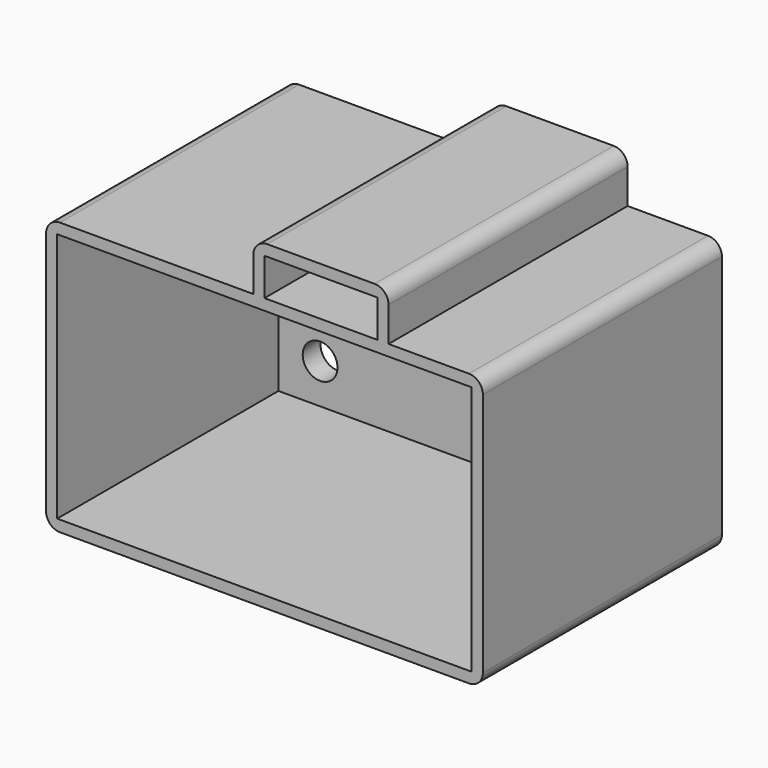
from build123d import *

# Parameters (mm, degrees)
F0_W      = 78.5
F0_H      = 49
F0_W_2    = 74.5
F0_H_2    = 45
F1_DEPTH  = 53.7
F2_W      = 24.3
F2_H      = 10.7
F2_W_2    = 20.3
F2_H_2    = 6.7
F3_DEPTH  = 11.15
F5_DEPTH  = 1
F6_W      = 74.5
F6_H      = 45
F6_R      = 3.125
F7_DEPTH  = 4
F10_DEPTH = 42.55
F11_R     = 2.5


with BuildPart() as f1:
    # F0 (on Front) → F1 (new body)
    with BuildSketch(Plane.XZ):
        Rectangle(F0_W, F0_H)
        Rectangle(F0_W_2, F0_H_2, mode=Mode.SUBTRACT)
    extrude(amount=-F1_DEPTH)

    # F2 (on Front) → F3 (join)
    with BuildSketch(Plane.XZ):
        with Locations((10.15, 27.85)):
            Rectangle(F2_W, F2_H)
        with Locations((10.15, 27.85)):
            Rectangle(F2_W_2, F2_H_2, mode=Mode.SUBTRACT)
    extrude(amount=-F3_DEPTH)

    # F4 (on face) → F5 (join)
    with BuildSketch(Plane(origin=(0, 11.15, 0), x_dir=(-1, 0, 0), z_dir=(0, 1, 0))):
        Polygon((-20.3, 24.5), (-19.3, 24.5), (-19.3, 30.2), (-1, 30.2), (-1, 24.5), (0, 24.5), (0, 31.2), (-20.3, 31.2), align=None)
    extrude(amount=-F5_DEPTH)


with BuildPart() as f7:
    # F6 (on face) → F7 (new body)
    with BuildSketch(Plane(origin=(0, 53.7, 0), x_dir=(-1, 0, 0), z_dir=(0, 1, 0))):
        Rectangle(F6_W, F6_H)
        with Locations((-29.765, -15.355)):
            Circle(F6_R, mode=Mode.SUBTRACT)
        with Locations((29.765, -15.355)):
            Circle(F6_R, mode=Mode.SUBTRACT)
        with Locations((-29.765, 15.355)):
            Circle(F6_R, mode=Mode.SUBTRACT)
        with Locations((29.765, 15.355)):
            Circle(F6_R, mode=Mode.SUBTRACT)
    extrude(amount=-F7_DEPTH)

    # F8: union F1
    add(f1.part)

    # F9 (on face) → F10 (join, through all)
    with BuildSketch(Plane(origin=(0, 11.15, 0), x_dir=(-1, 0, 0), z_dir=(0, 1, 0))):
        Polygon((-22.3, 24.5), (-19.3, 24.5), (-19.3, 30.2), (-1, 30.2), (-1, 24.5), (2, 24.5), (2, 33.2), (-22.3, 33.2), align=None)
    extrude(amount=F10_DEPTH)

    # F11
    f11_edges = [f7.edges().sort_by_distance(p)[0] for p in [
        (22.3, 26.85, 33.2),
        (-2, 26.85, 33.2),
        (39.25, 26.85, 24.5),
        (39.25, 26.85, -24.5),
        (-39.25, 26.85, 24.5),
        (-39.25, 26.85, -24.5),
    ]]
    fillet(f11_edges, radius=F11_R)


solid = f7.part
